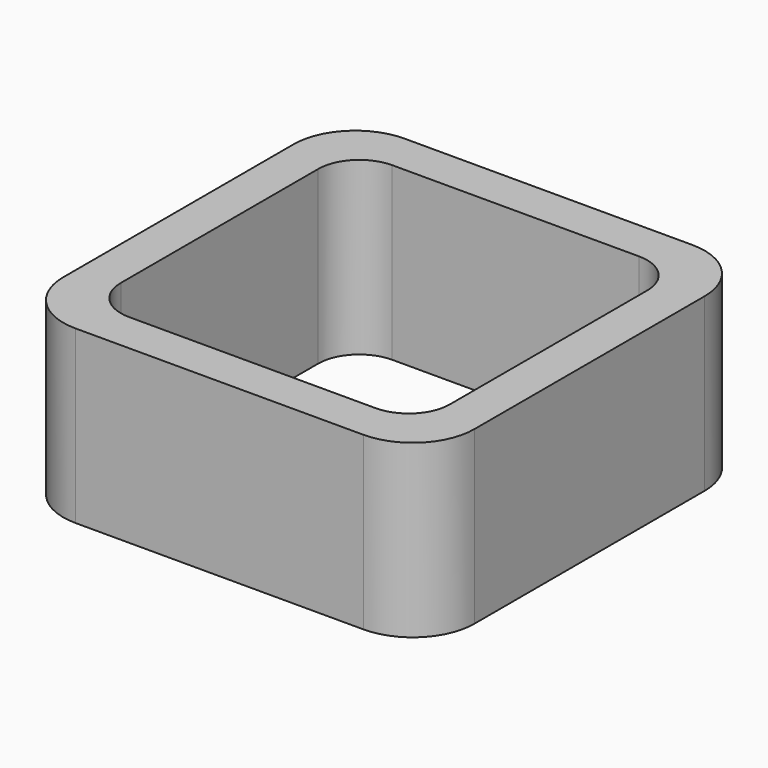
from build123d import *

# Parameters (mm, degrees)
EXTRUDE_DEPTH = 50


with BuildPart() as part:
    # Sketch → Extrude (new body)
    with BuildSketch(Plane.XY):
        with BuildLine():
            Line((-42, 60), (42, 60))
            ThreePointArc((60, 42), (54.727922, 54.727922), (42, 60))
            Line((60, 42), (60, -42))
            ThreePointArc((42, -60), (54.727922, -54.727922), (60, -42))
            Line((42, -60), (-42, -60))
            ThreePointArc((-60, -42), (-54.727922, -54.727922), (-42, -60))
            Line((-60, -42), (-60, 42))
            ThreePointArc((-42, 60), (-54.727922, 54.727922), (-60, 42))
        make_face()
        with BuildLine():
            Line((-36, 48), (36, 48))
            ThreePointArc((48, 36), (44.485281, 44.485281), (36, 48))
            Line((48, 36), (48, -36))
            ThreePointArc((36, -48), (44.485281, -44.485281), (48, -36))
            Line((36, -48), (-36, -48))
            ThreePointArc((-48, -36), (-44.485281, -44.485281), (-36, -48))
            Line((-48, -36), (-48, 36))
            ThreePointArc((-36, 48), (-44.485281, 44.485281), (-48, 36))
        make_face(mode=Mode.SUBTRACT)
    extrude(amount=EXTRUDE_DEPTH)


solid = part.part
